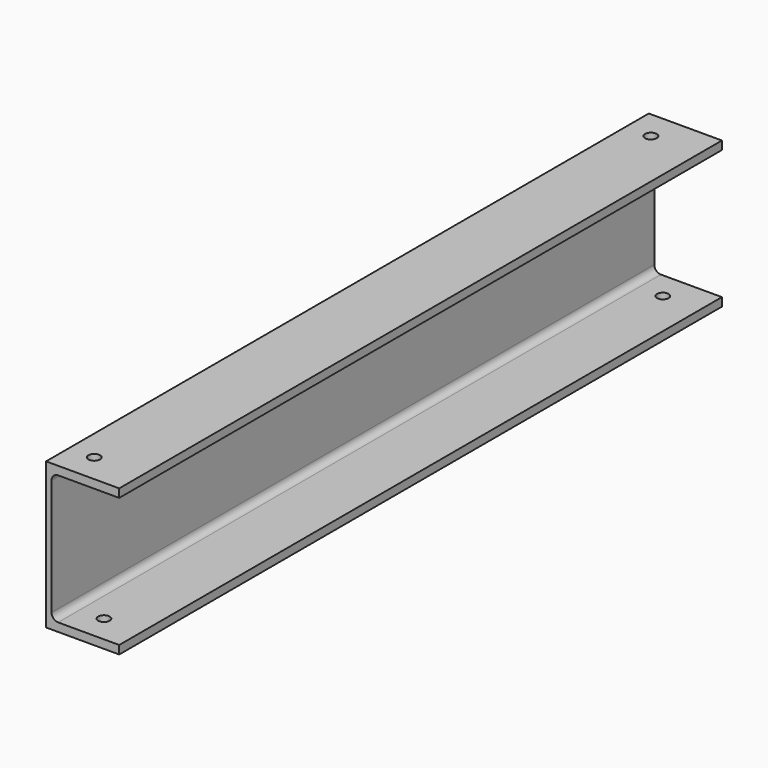
from build123d import *

# Parameters (mm, degrees)
F1_DEPTH = 523.24
F2_R     = 4.572
F4_D     = 8.1
F4_DEPTH = 20
F6_D     = 8
F6_DEPTH = 10


with BuildPart() as f1:
    # F0 (on Front) → F1 (new body)
    with BuildSketch(Plane.XZ):
        Polygon((0, 101.6), (0, 0), (50.8, 0), (50.8, 5.842), (3.81, 5.842), (3.81, 95.758), (50.8, 95.758), (50.8, 101.6), align=None)
    extrude(amount=-F1_DEPTH)

    # F2
    f2_edges = [f1.edges().sort_by_distance(p)[0] for p in [
        (3.81, 261.62, 5.842),
        (3.81, 261.62, 95.758),
    ]]
    fillet(f2_edges, radius=F2_R)

    # F4
    with Locations(Plane.XY.offset(101.6)):
        with Locations((17.4625, 503.24), (17.4625, 20)):
            Hole(F4_D / 2, depth=F4_DEPTH)

    # F6
    with Locations(Plane(origin=(0, 0, 0), x_dir=(1, 0, 0), z_dir=(0, 0, -1))):
        with Locations((25, -19), (25, -504.24)):
            Hole(F6_D / 2, depth=F6_DEPTH)


solid = f1.part
